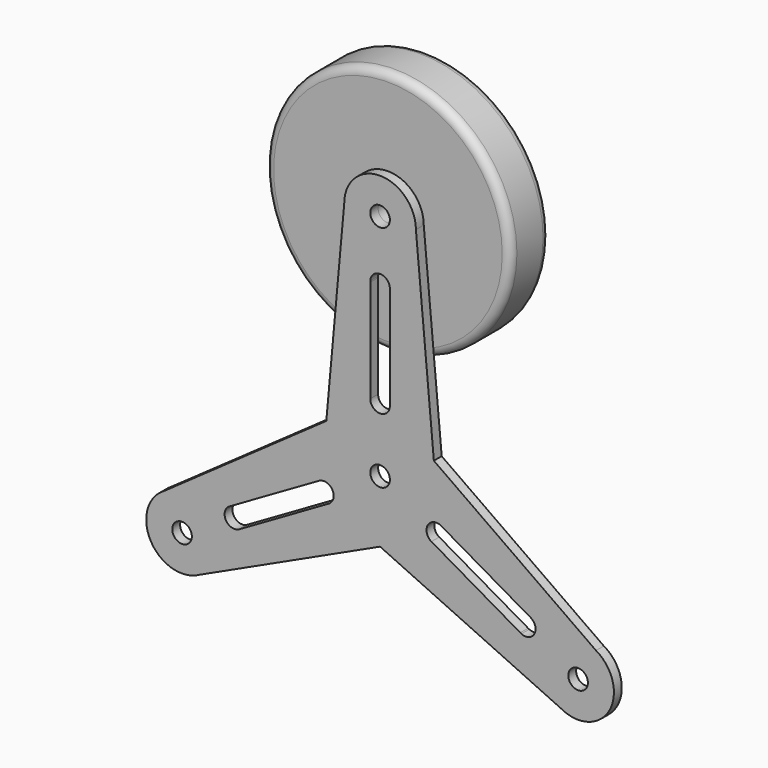
from build123d import *

# Parameters (mm, degrees)
F0_R     = 6
F1_DEPTH = 6
F2_R     = 75
F3_DEPTH = 30
F4_R     = 5
F5_DEPTH = 30.001


with BuildPart() as f1:
    # F0 (on Front) → F1 (new body)
    with BuildSketch(Plane.XZ):
        with BuildLine():
            Line((32.925511, 19.009553), (21.936078, 140))
            ThreePointArc((21.936078, 140), (0, 161.936078), (-21.936078, 140))
            Line((-21.936078, 140), (-32.925511, 19.009553))
            Line((-32.925511, 19.009553), (-132.211596, -51.002799))
            ThreePointArc((-132.211596, -51.002799), (-140.240758, -80.968039), (-110.275517, -88.997201))
            Line((-110.275517, -88.997201), (0, -38.019105))
            Line((0, -38.019105), (110.275517, -88.997201))
            ThreePointArc((110.275517, -88.997201), (140.240758, -80.968039), (132.211596, -51.002799))
            Line((132.211596, -51.002799), (32.925511, 19.009553))
        make_face()
        with Locations((-121.243557, -70)):
            Circle(F0_R, mode=Mode.SUBTRACT)
        with BuildLine():
            ThreePointArc((-92.526661, -46.506851), (-92.195079, -46.300651), (-91.850787, -46.116454))
            Line((-91.850787, -46.116454), (-37.421071, -14.676862))
            ThreePointArc((-37.421071, -14.676862), (-29.223875, -16.872412), (-31.421071, -25.069167))
            Line((-31.421071, -25.069167), (-85.863414, -56.486888))
            ThreePointArc((-85.863414, -56.486888), (-86.195079, -56.692955), (-86.539445, -56.877014))
            ThreePointArc((-86.539445, -56.877014), (-94.390188, -54.4962), (-92.526661, -46.506851))
        make_face(mode=Mode.SUBTRACT)
        Circle(F0_R, mode=Mode.SUBTRACT)
        with BuildLine():
            ThreePointArc((86.539445, -56.877014), (86.195079, -56.692955), (85.863414, -56.486888))
            Line((85.863414, -56.486888), (31.421071, -25.069167))
            ThreePointArc((31.421071, -25.069167), (29.223875, -16.872412), (37.421071, -14.676862))
            Line((37.421071, -14.676862), (91.850787, -46.116454))
            ThreePointArc((91.850787, -46.116454), (92.195079, -46.300651), (92.526661, -46.506851))
            ThreePointArc((92.526661, -46.506851), (94.390188, -54.4962), (86.539445, -56.877014))
        make_face(mode=Mode.SUBTRACT)
        with Locations((121.243557, -70)):
            Circle(F0_R, mode=Mode.SUBTRACT)
        with BuildLine():
            ThreePointArc((5.987216, 103.383865), (6, 102.993606), (5.987373, 102.603342))
            Line((5.987373, 102.603342), (6, 39.746029))
            ThreePointArc((6, 39.746029), (0, 33.744824), (-6, 39.746029))
            Line((-6, 39.746029), (-5.987373, 102.603342))
            ThreePointArc((-5.987373, 102.603342), (-6, 102.993606), (-5.987216, 103.383865))
            ThreePointArc((-5.987216, 103.383865), (0, 108.992401), (5.987216, 103.383865))
        make_face(mode=Mode.SUBTRACT)
        with Locations((0, 140)):
            Circle(F0_R, mode=Mode.SUBTRACT)
        with BuildLine():
            Line((32.925511, 19.009553), (21.936078, 140))
            ThreePointArc((21.936078, 140), (0, 161.936078), (-21.936078, 140))
            Line((-21.936078, 140), (-32.925511, 19.009553))
            Line((-32.925511, 19.009553), (-132.211596, -51.002799))
            ThreePointArc((-132.211596, -51.002799), (-140.240758, -80.968039), (-110.275517, -88.997201))
            Line((-110.275517, -88.997201), (0, -38.019105))
            Line((0, -38.019105), (110.275517, -88.997201))
            ThreePointArc((110.275517, -88.997201), (140.240758, -80.968039), (132.211596, -51.002799))
            Line((132.211596, -51.002799), (32.925511, 19.009553))
        make_face()
        with Locations((-121.243557, -70)):
            Circle(F0_R, mode=Mode.SUBTRACT)
        with BuildLine():
            ThreePointArc((-92.526661, -46.506851), (-92.195079, -46.300651), (-91.850787, -46.116454))
            Line((-91.850787, -46.116454), (-37.421071, -14.676862))
            ThreePointArc((-37.421071, -14.676862), (-29.223875, -16.872412), (-31.421071, -25.069167))
            Line((-31.421071, -25.069167), (-85.863414, -56.486888))
            ThreePointArc((-85.863414, -56.486888), (-86.195079, -56.692955), (-86.539445, -56.877014))
            ThreePointArc((-86.539445, -56.877014), (-94.390188, -54.4962), (-92.526661, -46.506851))
        make_face(mode=Mode.SUBTRACT)
        Circle(F0_R, mode=Mode.SUBTRACT)
        with BuildLine():
            ThreePointArc((86.539445, -56.877014), (86.195079, -56.692955), (85.863414, -56.486888))
            Line((85.863414, -56.486888), (31.421071, -25.069167))
            ThreePointArc((31.421071, -25.069167), (29.223875, -16.872412), (37.421071, -14.676862))
            Line((37.421071, -14.676862), (91.850787, -46.116454))
            ThreePointArc((91.850787, -46.116454), (92.195079, -46.300651), (92.526661, -46.506851))
            ThreePointArc((92.526661, -46.506851), (94.390188, -54.4962), (86.539445, -56.877014))
        make_face(mode=Mode.SUBTRACT)
        with Locations((121.243557, -70)):
            Circle(F0_R, mode=Mode.SUBTRACT)
        with BuildLine():
            ThreePointArc((5.987216, 103.383865), (6, 102.993606), (5.987373, 102.603342))
            Line((5.987373, 102.603342), (6, 39.746029))
            ThreePointArc((6, 39.746029), (0, 33.744824), (-6, 39.746029))
            Line((-6, 39.746029), (-5.987373, 102.603342))
            ThreePointArc((-5.987373, 102.603342), (-6, 102.993606), (-5.987216, 103.383865))
            ThreePointArc((-5.987216, 103.383865), (0, 108.992401), (5.987216, 103.383865))
        make_face(mode=Mode.SUBTRACT)
        with Locations((0, 140)):
            Circle(F0_R, mode=Mode.SUBTRACT)
        with BuildLine():
            Line((32.925511, 19.009553), (21.936078, 140))
            ThreePointArc((21.936078, 140), (0, 161.936078), (-21.936078, 140))
            Line((-21.936078, 140), (-32.925511, 19.009553))
            Line((-32.925511, 19.009553), (-132.211596, -51.002799))
            ThreePointArc((-132.211596, -51.002799), (-140.240758, -80.968039), (-110.275517, -88.997201))
            Line((-110.275517, -88.997201), (0, -38.019105))
            Line((0, -38.019105), (110.275517, -88.997201))
            ThreePointArc((110.275517, -88.997201), (140.240758, -80.968039), (132.211596, -51.002799))
            Line((132.211596, -51.002799), (32.925511, 19.009553))
        make_face()
        with Locations((-121.243557, -70)):
            Circle(F0_R, mode=Mode.SUBTRACT)
        with BuildLine():
            ThreePointArc((-92.526661, -46.506851), (-92.195079, -46.300651), (-91.850787, -46.116454))
            Line((-91.850787, -46.116454), (-37.421071, -14.676862))
            ThreePointArc((-37.421071, -14.676862), (-29.223875, -16.872412), (-31.421071, -25.069167))
            Line((-31.421071, -25.069167), (-85.863414, -56.486888))
            ThreePointArc((-85.863414, -56.486888), (-86.195079, -56.692955), (-86.539445, -56.877014))
            ThreePointArc((-86.539445, -56.877014), (-94.390188, -54.4962), (-92.526661, -46.506851))
        make_face(mode=Mode.SUBTRACT)
        Circle(F0_R, mode=Mode.SUBTRACT)
        with BuildLine():
            ThreePointArc((86.539445, -56.877014), (86.195079, -56.692955), (85.863414, -56.486888))
            Line((85.863414, -56.486888), (31.421071, -25.069167))
            ThreePointArc((31.421071, -25.069167), (29.223875, -16.872412), (37.421071, -14.676862))
            Line((37.421071, -14.676862), (91.850787, -46.116454))
            ThreePointArc((91.850787, -46.116454), (92.195079, -46.300651), (92.526661, -46.506851))
            ThreePointArc((92.526661, -46.506851), (94.390188, -54.4962), (86.539445, -56.877014))
        make_face(mode=Mode.SUBTRACT)
        with Locations((121.243557, -70)):
            Circle(F0_R, mode=Mode.SUBTRACT)
        with BuildLine():
            ThreePointArc((5.987216, 103.383865), (6, 102.993606), (5.987373, 102.603342))
            Line((5.987373, 102.603342), (6, 39.746029))
            ThreePointArc((6, 39.746029), (0, 33.744824), (-6, 39.746029))
            Line((-6, 39.746029), (-5.987373, 102.603342))
            ThreePointArc((-5.987373, 102.603342), (-6, 102.993606), (-5.987216, 103.383865))
            ThreePointArc((-5.987216, 103.383865), (0, 108.992401), (5.987216, 103.383865))
        make_face(mode=Mode.SUBTRACT)
        with Locations((0, 140)):
            Circle(F0_R, mode=Mode.SUBTRACT)
        with BuildLine():
            Line((32.925511, 19.009553), (21.936078, 140))
            ThreePointArc((21.936078, 140), (0, 161.936078), (-21.936078, 140))
            Line((-21.936078, 140), (-32.925511, 19.009553))
            Line((-32.925511, 19.009553), (-132.211596, -51.002799))
            ThreePointArc((-132.211596, -51.002799), (-140.240758, -80.968039), (-110.275517, -88.997201))
            Line((-110.275517, -88.997201), (0, -38.019105))
            Line((0, -38.019105), (110.275517, -88.997201))
            ThreePointArc((110.275517, -88.997201), (140.240758, -80.968039), (132.211596, -51.002799))
            Line((132.211596, -51.002799), (32.925511, 19.009553))
        make_face()
        with Locations((-121.243557, -70)):
            Circle(F0_R, mode=Mode.SUBTRACT)
        with BuildLine():
            ThreePointArc((-92.526661, -46.506851), (-92.195079, -46.300651), (-91.850787, -46.116454))
            Line((-91.850787, -46.116454), (-37.421071, -14.676862))
            ThreePointArc((-37.421071, -14.676862), (-29.223875, -16.872412), (-31.421071, -25.069167))
            Line((-31.421071, -25.069167), (-85.863414, -56.486888))
            ThreePointArc((-85.863414, -56.486888), (-86.195079, -56.692955), (-86.539445, -56.877014))
            ThreePointArc((-86.539445, -56.877014), (-94.390188, -54.4962), (-92.526661, -46.506851))
        make_face(mode=Mode.SUBTRACT)
        Circle(F0_R, mode=Mode.SUBTRACT)
        with BuildLine():
            ThreePointArc((86.539445, -56.877014), (86.195079, -56.692955), (85.863414, -56.486888))
            Line((85.863414, -56.486888), (31.421071, -25.069167))
            ThreePointArc((31.421071, -25.069167), (29.223875, -16.872412), (37.421071, -14.676862))
            Line((37.421071, -14.676862), (91.850787, -46.116454))
            ThreePointArc((91.850787, -46.116454), (92.195079, -46.300651), (92.526661, -46.506851))
            ThreePointArc((92.526661, -46.506851), (94.390188, -54.4962), (86.539445, -56.877014))
        make_face(mode=Mode.SUBTRACT)
        with Locations((121.243557, -70)):
            Circle(F0_R, mode=Mode.SUBTRACT)
        with BuildLine():
            ThreePointArc((5.987216, 103.383865), (6, 102.993606), (5.987373, 102.603342))
            Line((5.987373, 102.603342), (6, 39.746029))
            ThreePointArc((6, 39.746029), (0, 33.744824), (-6, 39.746029))
            Line((-6, 39.746029), (-5.987373, 102.603342))
            ThreePointArc((-5.987373, 102.603342), (-6, 102.993606), (-5.987216, 103.383865))
            ThreePointArc((-5.987216, 103.383865), (0, 108.992401), (5.987216, 103.383865))
        make_face(mode=Mode.SUBTRACT)
        with Locations((0, 140)):
            Circle(F0_R, mode=Mode.SUBTRACT)
    extrude(amount=F1_DEPTH)


with BuildPart() as f3:
    # F2 (on face) → F3 (new body)
    with BuildSketch(Plane.XZ):
        with Locations((0, 140)):
            Circle(F2_R)
    extrude(amount=-F3_DEPTH)

    # F4
    f4_edges = [f3.edges().sort_by_distance(p)[0] for p in [
        (-75, 0, 140),
        (-75, 30, 140),
    ]]
    fillet(f4_edges, radius=F4_R)

    # F0 (on Front) → F5 (cut, through all)
    with BuildSketch(Plane.XZ):
        with Locations((0, 140)):
            Circle(F0_R)
    extrude(amount=-F5_DEPTH, mode=Mode.SUBTRACT)


solid = Compound([f1.part, f3.part])
